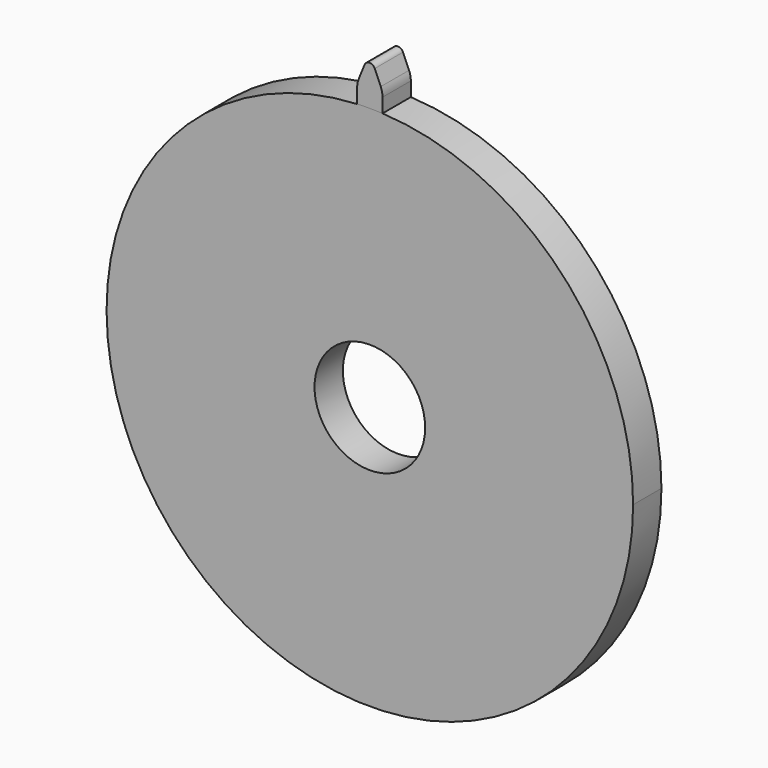
from build123d import *

# Parameters (mm, degrees)
F0_R     = 12.5
F1_DEPTH = 8
F2_DEPTH = 8
F3_R     = 5


with BuildPart() as f1:
    # F0 (on Front) → F1 (new body)
    with BuildSketch(Plane.XZ):
        with BuildLine():
            ThreePointArc((-2.864354, 59.431014), (-41.047661, -43.073653), (59.5, 0))
            ThreePointArc((59.5, 0), (43.073653, 41.047661), (2.864354, 59.431014))
            ThreePointArc((2.864354, 59.431014), (0, 59.5), (-2.864354, 59.431014))
        make_face()
        Circle(F0_R, mode=Mode.SUBTRACT)
    extrude(amount=F1_DEPTH)


with BuildPart() as f2:
    # F0 (on Front) → F2 (new body, through all)
    with BuildSketch(Plane.XZ):
        with BuildLine():
            ThreePointArc((-2.864354, 59.431014), (0, 59.5), (2.864354, 59.431014))
            Line((2.864354, 59.431014), (2.864354, 63.685618))
            Line((2.864354, 63.685618), (1.102912, 67.791029))
            ThreePointArc((1.102912, 67.791029), (-0.051035, 68.563614), (-1.202012, 67.78661))
            Line((-1.202012, 67.78661), (-2.864354, 63.685496))
            Line((-2.864354, 63.685496), (-2.864354, 59.431014))
        make_face()
    extrude(amount=F2_DEPTH)

    # F3
    f3_edges = [f2.edges().sort_by_distance(p)[0] for p in [
        (2.864354, -4, 63.685618),
        (-2.864354, -4, 63.685496),
    ]]
    fillet(f3_edges, radius=F3_R)


solid = Compound([f1.part, f2.part])
